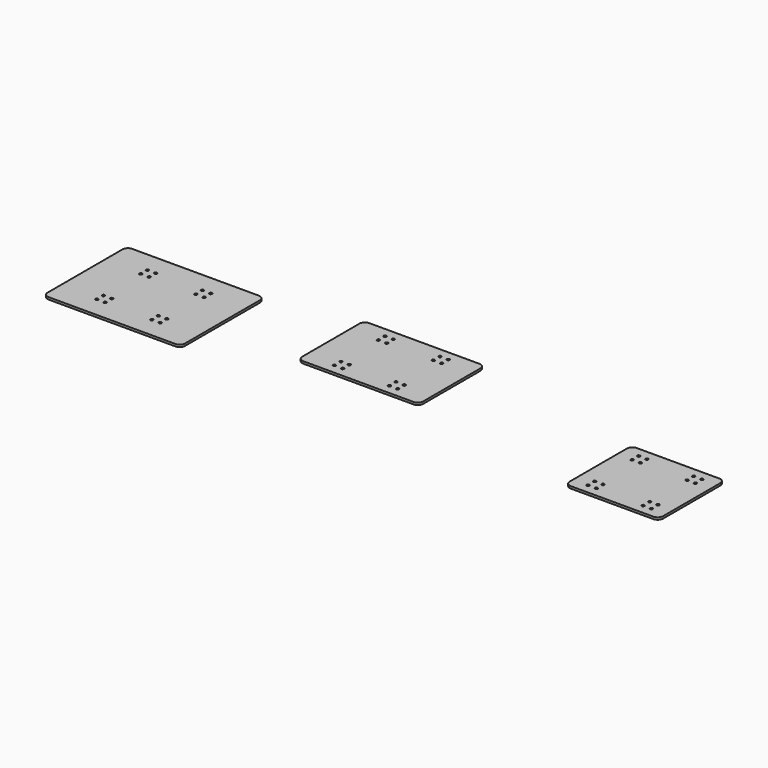
from build123d import *

# Parameters (mm, degrees)
F0_W     = 1250
F0_H     = 950
F0_R     = 12.5
F1_DEPTH = 20
F2_R     = 50
F3_W     = 1100
F3_H     = 750
F3_R     = 12.5
F4_DEPTH = 20
F5_R     = 50
F6_W     = 850
F6_H     = 750
F6_R     = 12.5
F7_DEPTH = 20
F8_R     = 50


with BuildPart() as f1:
    # F0 (on Top) → F1 (new body)
    with BuildSketch(Plane.XY):
        Rectangle(F0_W, F0_H)
        with Locations((-287.5, -287.5)):
            Circle(F0_R, mode=Mode.SUBTRACT)
        with Locations((-212.5, -287.5)):
            Circle(F0_R, mode=Mode.SUBTRACT)
        with Locations((-287.5, -212.5)):
            Circle(F0_R, mode=Mode.SUBTRACT)
        with Locations((-212.5, -212.5)):
            Circle(F0_R, mode=Mode.SUBTRACT)
        with Locations((212.5, -287.5)):
            Circle(F0_R, mode=Mode.SUBTRACT)
        with Locations((287.5, -287.5)):
            Circle(F0_R, mode=Mode.SUBTRACT)
        with Locations((212.5, -212.5)):
            Circle(F0_R, mode=Mode.SUBTRACT)
        with Locations((287.5, -212.5)):
            Circle(F0_R, mode=Mode.SUBTRACT)
        with Locations((-287.5, 212.5)):
            Circle(F0_R, mode=Mode.SUBTRACT)
        with Locations((-212.5, 212.5)):
            Circle(F0_R, mode=Mode.SUBTRACT)
        with Locations((-287.5, 287.5)):
            Circle(F0_R, mode=Mode.SUBTRACT)
        with Locations((-212.5, 287.5)):
            Circle(F0_R, mode=Mode.SUBTRACT)
        with Locations((212.5, 212.5)):
            Circle(F0_R, mode=Mode.SUBTRACT)
        with Locations((287.5, 212.5)):
            Circle(F0_R, mode=Mode.SUBTRACT)
        with Locations((212.5, 287.5)):
            Circle(F0_R, mode=Mode.SUBTRACT)
        with Locations((287.5, 287.5)):
            Circle(F0_R, mode=Mode.SUBTRACT)
    extrude(amount=F1_DEPTH)

    # F2
    f2_edges = [f1.edges().sort_by_distance(p)[0] for p in [
        (-625, 475, 10),
        (625, 475, 10),
        (-625, -475, 10),
        (625, -475, 10),
    ]]
    fillet(f2_edges, radius=F2_R)


with BuildPart() as f4:
    # F3 (on Top) → F4 (new body)
    with BuildSketch(Plane.XY):
        with Locations((1951.562147, 259.963053)):
            Rectangle(F3_W, F3_H)
        with Locations((1664.062147, -27.536947)):
            Circle(F3_R, mode=Mode.SUBTRACT)
        with Locations((1664.062147, 47.463053)):
            Circle(F3_R, mode=Mode.SUBTRACT)
        with Locations((1739.062147, -27.536947)):
            Circle(F3_R, mode=Mode.SUBTRACT)
        with Locations((1739.062147, 47.463053)):
            Circle(F3_R, mode=Mode.SUBTRACT)
        with Locations((2164.062147, -27.536947)):
            Circle(F3_R, mode=Mode.SUBTRACT)
        with Locations((2164.062147, 47.463053)):
            Circle(F3_R, mode=Mode.SUBTRACT)
        with Locations((2239.062147, -27.536947)):
            Circle(F3_R, mode=Mode.SUBTRACT)
        with Locations((2239.062147, 47.463053)):
            Circle(F3_R, mode=Mode.SUBTRACT)
        with Locations((1664.062147, 472.463053)):
            Circle(F3_R, mode=Mode.SUBTRACT)
        with Locations((1664.062147, 547.463053)):
            Circle(F3_R, mode=Mode.SUBTRACT)
        with Locations((1739.062147, 472.463053)):
            Circle(F3_R, mode=Mode.SUBTRACT)
        with Locations((1739.062147, 547.463053)):
            Circle(F3_R, mode=Mode.SUBTRACT)
        with Locations((2164.062147, 472.463053)):
            Circle(F3_R, mode=Mode.SUBTRACT)
        with Locations((2164.062147, 547.463053)):
            Circle(F3_R, mode=Mode.SUBTRACT)
        with Locations((2239.062147, 472.463053)):
            Circle(F3_R, mode=Mode.SUBTRACT)
        with Locations((2239.062147, 547.463053)):
            Circle(F3_R, mode=Mode.SUBTRACT)
    extrude(amount=F4_DEPTH)

    # F5
    f5_edges = [f4.edges().sort_by_distance(p)[0] for p in [
        (1401.562147, 634.963053, 10),
        (1401.562147, -115.036947, 10),
        (2501.562147, 634.963053, 10),
        (2501.562147, -115.036947, 10),
    ]]
    fillet(f5_edges, radius=F5_R)


with BuildPart() as f7:
    # F6 (on Top) → F7 (new body)
    with BuildSketch(Plane.XY):
        with Locations((4508.319596, -53.291292)):
            Rectangle(F6_W, F6_H)
        with Locations((4220.819596, -340.791292)):
            Circle(F6_R, mode=Mode.SUBTRACT)
        with Locations((4220.819596, -265.791292)):
            Circle(F6_R, mode=Mode.SUBTRACT)
        with Locations((4295.819596, -340.791292)):
            Circle(F6_R, mode=Mode.SUBTRACT)
        with Locations((4295.819596, -265.791292)):
            Circle(F6_R, mode=Mode.SUBTRACT)
        with Locations((4720.819596, -340.791292)):
            Circle(F6_R, mode=Mode.SUBTRACT)
        with Locations((4795.819596, -340.791292)):
            Circle(F6_R, mode=Mode.SUBTRACT)
        with Locations((4720.819596, -265.791292)):
            Circle(F6_R, mode=Mode.SUBTRACT)
        with Locations((4795.819596, -265.791292)):
            Circle(F6_R, mode=Mode.SUBTRACT)
        with Locations((4220.819596, 159.208708)):
            Circle(F6_R, mode=Mode.SUBTRACT)
        with Locations((4220.819596, 234.208708)):
            Circle(F6_R, mode=Mode.SUBTRACT)
        with Locations((4295.819596, 159.208708)):
            Circle(F6_R, mode=Mode.SUBTRACT)
        with Locations((4295.819596, 234.208708)):
            Circle(F6_R, mode=Mode.SUBTRACT)
        with Locations((4720.819596, 159.208708)):
            Circle(F6_R, mode=Mode.SUBTRACT)
        with Locations((4795.819596, 159.208708)):
            Circle(F6_R, mode=Mode.SUBTRACT)
        with Locations((4720.819596, 234.208708)):
            Circle(F6_R, mode=Mode.SUBTRACT)
        with Locations((4795.819596, 234.208708)):
            Circle(F6_R, mode=Mode.SUBTRACT)
    extrude(amount=F7_DEPTH)

    # F8
    f8_edges = [f7.edges().sort_by_distance(p)[0] for p in [
        (4083.319596, 321.708708, 10),
        (4933.319596, 321.708708, 10),
        (4933.319596, -428.291292, 10),
        (4083.319596, -428.291292, 10),
    ]]
    fillet(f8_edges, radius=F8_R)


solid = Compound([f1.part, f4.part, f7.part])
